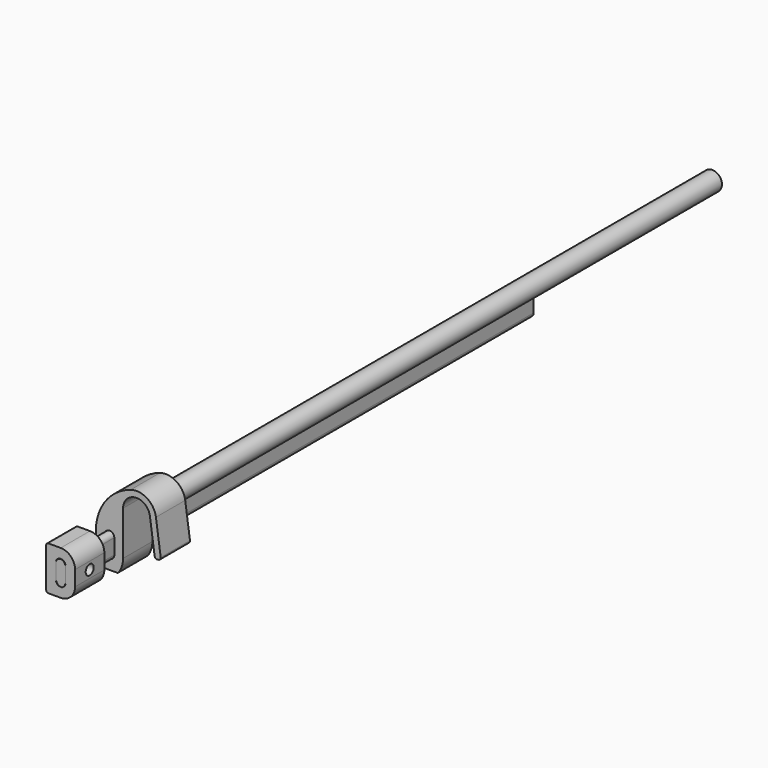
from build123d import *

# Parameters (mm, degrees)
F1_DEPTH  = 152.4
F3_DEPTH  = 19.05
F4_R      = 2.6
F5_DEPTH  = 15.0886
F6_R      = 3.3
F7_DEPTH  = 10.0076
F10_DEPTH = 19.05
F11_R     = 1.27
F11_2_R   = 1.27
F12_R     = 2.6
F13_DEPTH = 11.557
F14_R     = 5
F15_DEPTH = 355.6


with BuildPart() as f1:
    # F0 (on Front) → F1 (new body, symmetric)
    with BuildSketch(Plane.XZ):
        with BuildLine():
            ThreePointArc((-2.4003, -3.9497), (0, -6.35), (2.4003, -3.9497))
            Line((2.4003, -3.9497), (2.4003, 3.9497))
            ThreePointArc((2.4003, 3.9497), (0, 6.35), (-2.4003, 3.9497))
            Line((-2.4003, 3.9497), (-2.4003, -3.9497))
        make_face()
    extrude(amount=F1_DEPTH, both=True)


with BuildPart() as f3:
    # F2 (on face) → F3 (new body)
    with BuildSketch(Plane.XZ.offset(152.4)):
        with BuildLine():
            Line((7.4803, -3.9497), (7.4803, 3.9497))
            ThreePointArc((7.4803, 3.9497), (5.2893708553, 9.2390708553), (0, 11.43))
            Line((0, 11.43), (-7.6073, 11.43))
            Line((-7.6073, 11.43), (-7.6073, -11.43))
            Line((-7.6073, -11.43), (0, -11.43))
            ThreePointArc((0, -11.43), (5.2893708553, -9.2390708553), (7.4803, -3.9497))
        make_face()
        with BuildLine():
            ThreePointArc((-2.5273, 3.9497), (0, 6.477), (2.5273, 3.9497))
            Line((2.5273, 3.9497), (2.5273, -3.9497))
            ThreePointArc((2.5273, -3.9497), (0, -6.477), (-2.5273, -3.9497))
            Line((-2.5273, -3.9497), (-2.5273, 3.9497))
        make_face(mode=Mode.SUBTRACT)
    extrude(amount=-F3_DEPTH)


with BuildPart() as f5_tool:
    # F4 (on face) → F5 (new body, through all)
    with BuildSketch(Plane.YZ.offset(7.4803)):
        with Locations((-142.875, 0)):
            Circle(F4_R)
    extrude(amount=-F5_DEPTH)


with BuildPart() as f1_1:
    add(f1.part)

    # F5: cut by f5_tool
    add(f5_tool.part, mode=Mode.SUBTRACT)


with BuildPart() as f3_1:
    add(f3.part)

    # F5: cut by f5_tool
    add(f5_tool.part, mode=Mode.SUBTRACT)


with BuildPart() as f7_tool:
    # F6 (on face) → F7 (new body, through all)
    with BuildSketch(Plane(origin=(-7.6073, 0, 0), x_dir=(0, -1, 0), z_dir=(-1, 0, 0))):
        with Locations((142.875, 0)):
            Circle(F6_R)
    extrude(amount=-F7_DEPTH)


with BuildPart() as f1_2:
    add(f1_1.part)

    # F7: cut by f7_tool
    add(f7_tool.part, mode=Mode.SUBTRACT)


with BuildPart() as f3_2:
    add(f3_1.part)

    # F7: cut by f7_tool
    add(f7_tool.part, mode=Mode.SUBTRACT)

    # F11#2
    f11_2_edges = [f3_2.edges().sort_by_distance(p)[0] for p in [
        (-7.6073, -142.875, -11.43),
        (-7.6073, -142.875, 11.43),
    ]]
    fillet(f11_2_edges, radius=F11_2_R)


with BuildPart() as f10:
    # F9 (on offset) → F10 (new body)
    with BuildSketch(Plane.XZ.offset(101.6)):
        with BuildLine():
            ThreePointArc((4.445, -11.557), (6.4166719567, -7.9782332871), (7.0993, -3.9497))
            Line((7.0993, -3.9497), (7.0993, 3.9497))
            Line((7.0993, 3.9497), (7.0993, 19.05))
            ThreePointArc((7.0993, 19.05), (13.6129178767, 26.035), (21.0352697821, 20.0244979382))
            Line((21.0352697821, 20.0244979382), (23.6865173554, 1.1598912287))
            Line((23.6865173554, 1.1598912287), (26.8306184737, 1.6017658242))
            Line((26.8306184737, 1.6017658242), (24.1793709004, 20.4663725338))
            ThreePointArc((24.1793709004, 20.4663725338), (19.514001666, 27.6683383689), (11.0005581512, 28.7431692878))
            ThreePointArc((11.0005581512, 28.7431692878), (-2.0929146534, 19.2983235899), (-7.0993, 3.9497))
            Line((-7.0993, 3.9497), (-7.0993, -3.9497))
            ThreePointArc((-7.0993, -3.9497), (-6.4166719567, -7.9782332871), (-4.445, -11.557))
            Line((-4.445, -11.557), (4.445, -11.557))
        make_face()
        with BuildLine():
            ThreePointArc((-2.5273, 3.9497), (0, 6.477), (2.5273, 3.9497))
            Line((2.5273, 3.9497), (2.5273, -3.9497))
            ThreePointArc((2.5273, -3.9497), (0, -6.477), (-2.5273, -3.9497))
            Line((-2.5273, -3.9497), (-2.5273, 3.9497))
        make_face(mode=Mode.SUBTRACT)
    extrude(amount=F10_DEPTH)

    # F11
    f11_edges = [f10.edges().sort_by_distance(p)[0] for p in [
        (26.830618, -111.125, 1.601766),
        (23.686517, -111.125, 1.159891),
        (-4.445, -111.125, -11.557),
        (4.445, -111.125, -11.557),
    ]]
    fillet(f11_edges, radius=F11_R)

    # F12 (on face) → F13 (cut, through all)
    with BuildSketch(Plane(origin=(0, 0, -11.557), x_dir=(1, 0, 0), z_dir=(0, 0, -1))):
        with Locations((0, 111.125)):
            Circle(F12_R)
    extrude(amount=-F13_DEPTH, mode=Mode.SUBTRACT)


with BuildPart() as f15:
    # F14 (on face) → F15 (new body)
    with BuildSketch(Plane(origin=(0, -101.6, 0), x_dir=(-1, 0, 0), z_dir=(0, 1, 0))):
        with Locations((-14.1013566581, 19.05)):
            Circle(F14_R)
    extrude(amount=F15_DEPTH)


solid = Compound([f1_2.part, f3_2.part, f10.part, f15.part])
